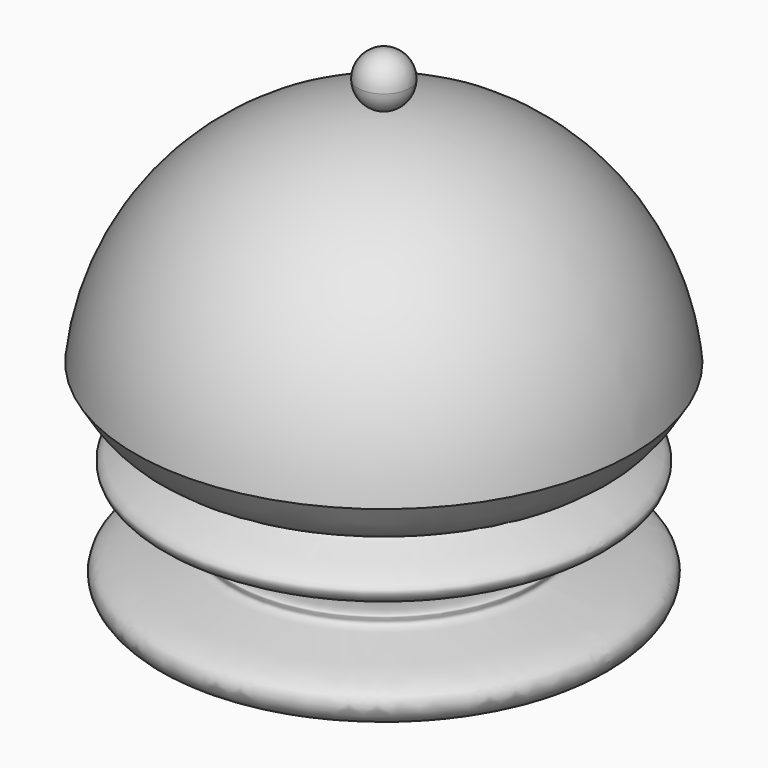
from build123d import *


with BuildPart() as f1:
    # F0 (on Front) → F1 (revolve)
    with BuildSketch(Plane.XZ):
        with BuildLine():
            Line((0, 65.6062430084), (0, 0))
            Line((0, 0), (25.4879500717, 0))
            add(Edge.make_bspline(
                [(39.4509136677, 30.1422718912), (37.7867208097, 27.3431675993), (34.9156970472, 22.5142231066), (25.0259213641, 21.0724659109), (38.5521953934, 17.3922857262), (32.3840136795, 13.025955067), (26.9724971198, 13.2992306223), (25.5798926973, 25.6990586469), (15.3464832245, 20.2079840215), (18.2854006317, 14.740341233), (17.3020484798, 11.8634754075), (18.7956901372, 6.4694735754), (20.2109563671, 7.208418719), (24.8607242996, 7.6775281347), (22.1938912589, 4.7577902961), (39.5872348239, 4.4325073796), (34.268200288, -4.5039214533), (28.7126653904, -1.65415155), (25.4879500717, 0)],
                knots=[0, 0, 0, 0, 0.0829784207, 0.1431522893, 0.2184203746, 0.2740413782, 0.3315110508, 0.4131734306, 0.4849108691, 0.5447204209, 0.5940050122, 0.6521533327, 0.6833236189, 0.7342245322, 0.7626790003, 0.8592293079, 0.9182895229, 1, 1, 1, 1], degree=3))
            ThreePointArc((39.4509136677, 30.1422718912), (26.5238941174, 55.4369909481), (0, 65.6062430084))
        make_face()
    revolve(axis=Axis((0, 0, 36.8614089519), (0, 0, 1)))


with BuildPart() as f1b:
    # F0 (on Front) → F1, piece 2 (revolve)
    with BuildSketch(Plane.XZ):
        with BuildLine():
            Line((0, 73.7228179038), (0, 65.6062430084))
            ThreePointArc((0, 65.6062430084), (2.8696425743, 66.7948878818), (4.0582874477, 69.6645304561))
            ThreePointArc((4.0582874477, 69.6645304561), (2.8696425743, 72.5341730303), (0, 73.7228179038))
        make_face()
    revolve(axis=Axis((0, 0, 36.8614089519), (0, 0, 1)))


solid = Compound([f1.part, f1b.part])
